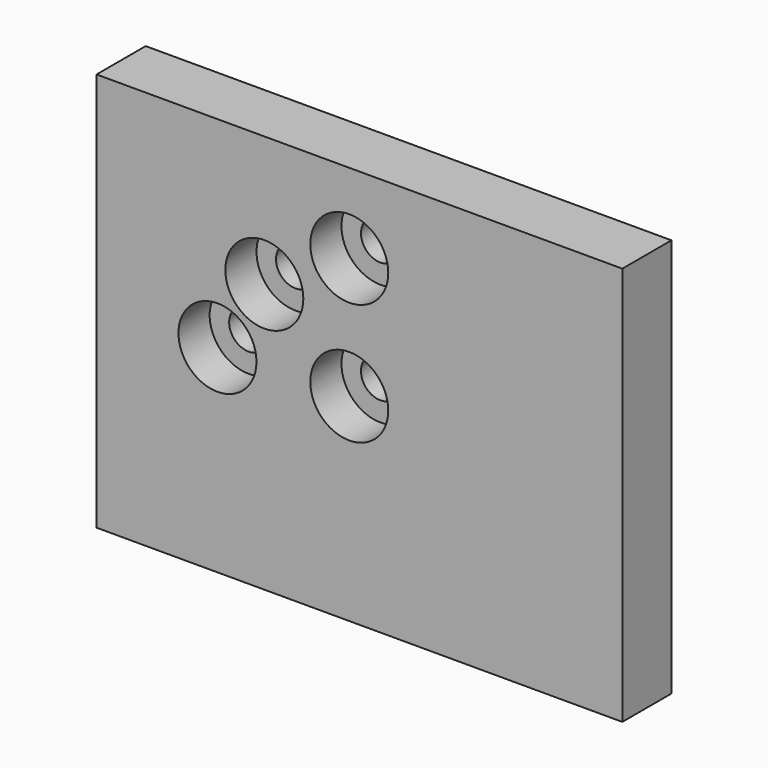
from build123d import *

# Parameters (mm, degrees)
F0_W           = 85.615795
F0_H           = 64.976272
F1_DEPTH       = 10
F3_D           = 6.35
F3_CBORE_D     = 12.7
F3_CBORE_DEPTH = 6.35


with BuildPart() as f1:
    # F0 (on Front) → F1 (new body)
    with BuildSketch(Plane.XZ):
        with Locations((1.656258, 0.254808)):
            Rectangle(F0_W, F0_H)
    extrude(amount=F1_DEPTH)

    # F3 (through all)
    with Locations(Plane.XZ.offset(10)):
        with Locations((0, 0), (-21.463588, 0), (-13.833649, 11.5387), (0, 19.747691)):
            CounterBoreHole(F3_D / 2, F3_CBORE_D / 2, F3_CBORE_DEPTH)


solid = f1.part
